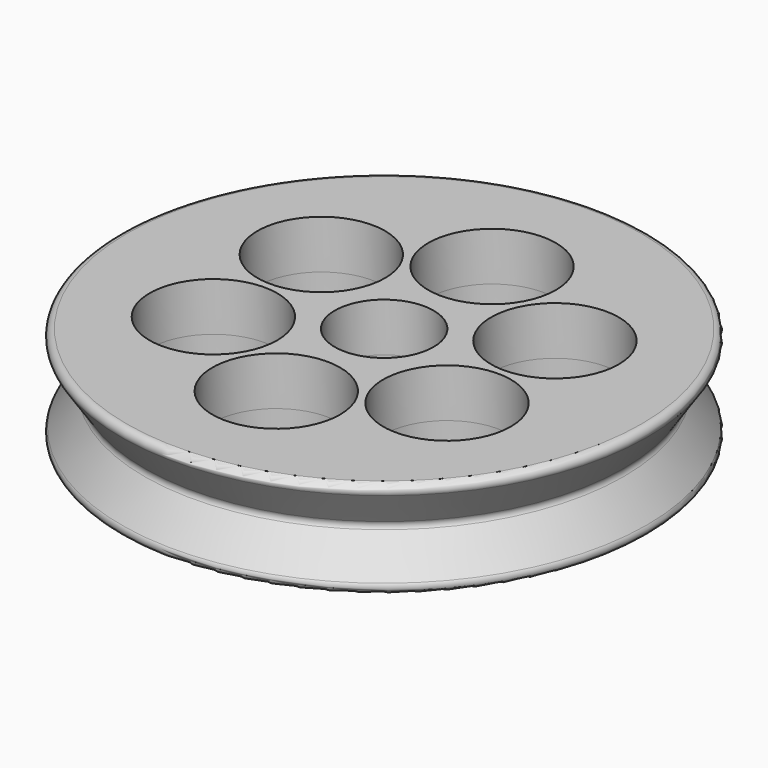
from build123d import *

# Parameters (mm, degrees)
F2_R          = 1
F3_R          = 7.62
F3_R_2        = 9.8425
F4_DEPTH      = 7.501
F4_DEPTH_BACK = 7.501


with BuildPart() as f1:
    # F0 (on Front) → F1 (revolve)
    with BuildSketch(Plane.XZ):
        with BuildLine():
            Line((41.5925, 7.5), (0, 7.5))
            Line((0, 7.5), (0, -7.5))
            Line((0, -7.5), (41.5925, -7.5))
            Line((41.5925, -7.5), (36.9623001308, -0.5547001962))
            ThreePointArc((36.9623001308, -0.5547001962), (36.7943504252, 0), (36.9623001308, 0.5547001962))
            Line((36.9623001308, 0.5547001962), (41.5925, 7.5))
        make_face()
    revolve(axis=Axis((0, 0, 0), (0, 0, -1)))

    # F2
    f2_edges = [f1.edges().sort_by_distance(p)[0] for p in [
        (-41.5925, 0, 7.5),
        (-41.5925, 0, -7.5),
    ]]
    fillet(f2_edges, radius=F2_R)

    # F3 (on Top) → F4 (cut, two sides)
    with BuildSketch(Plane.XY) as f4_sk:
        Circle(F3_R)
        with Locations((0, 20.8075332025)):
            Circle(F3_R_2)
        with Locations((-18.0198523435, 10.4037666013)):
            Circle(F3_R_2)
        with Locations((-18.0198523435, -10.4037666013)):
            Circle(F3_R_2)
        with Locations((0, -20.8075332025)):
            Circle(F3_R_2)
        with Locations((18.0198523435, -10.4037666013)):
            Circle(F3_R_2)
        with Locations((18.0198523435, 10.4037666013)):
            Circle(F3_R_2)
    extrude(amount=-F4_DEPTH, mode=Mode.SUBTRACT)
    extrude(f4_sk.sketch, amount=F4_DEPTH_BACK, mode=Mode.SUBTRACT)


solid = f1.part
